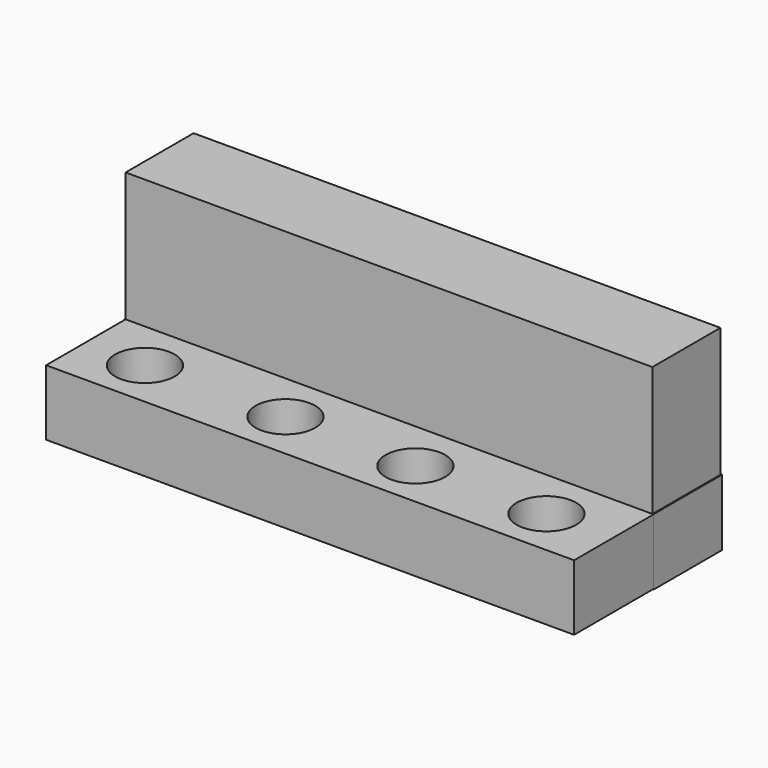
from build123d import *

# Parameters (mm, degrees)
F0_W     = 134.9227651954
F0_H     = 16.7649574578
F1_DEPTH = 25.4
F2_W     = 21.8847934157
F2_H     = 16.9657338411
F3_DEPTH = 25.4
F4_DEPTH = 25.4
F5_DEPTH = 16.002
F6_DEPTH = 68.326
F7_W     = 21.7192191631
F7_H     = 33.0388583243
F8_DEPTH = 66.548
F9_DEPTH = 68.072
F11_D    = 15.24
F12_D    = 15.24
F13_D    = 15.24


with BuildPart() as f1:
    # F0 (on Front) → F1 (new body)
    with BuildSketch(Plane.XZ):
        with Locations((-0.6023310125, -8.3824787289)):
            Rectangle(F0_W, F0_H)
    extrude(amount=F1_DEPTH)

    # F2 (on Right) → F3 (join)
    with BuildSketch(Plane.YZ):
        with Locations((10.9423967078, -8.4828669205)):
            Rectangle(F2_W, F2_H)
    extrude(amount=F3_DEPTH)

    # F4 (add): a face of the model
    f4_faces = [f1.faces().sort_by_distance(p)[0] for p in [
        (25.4, 10.9423967078, -8.4828669205),
    ]]
    extrude(f4_faces, amount=F4_DEPTH)

    # F5 (add): a face of the model
    f5_faces = [f1.faces().sort_by_distance(p)[0] for p in [
        (50.8, 10.9423967078, -8.4828669205),
    ]]
    extrude(f5_faces, amount=F5_DEPTH)

    # F6 (add): a face of the model
    f6_faces = [f1.faces().sort_by_distance(p)[0] for p in [
        (0, 10.9423967078, -8.4828669205),
    ]]
    extrude(f6_faces, amount=F6_DEPTH)

    # F7 (on Right) → F8 (join)
    with BuildSketch(Plane.YZ):
        with Locations((10.8596095815, 16.5194291621)):
            Rectangle(F7_W, F7_H)
    extrude(amount=F8_DEPTH)

    # F9 (add): a face of the model
    f9_faces = [f1.faces().sort_by_distance(p)[0] for p in [
        (0, 10.8596095815, 16.5194291621),
    ]]
    extrude(f9_faces, amount=F9_DEPTH)

    # F11 (through all)
    with Locations(Plane.XY):
        with Locations((-52.6038147509, -13.1509546191)):
            Hole(F11_D / 2)

    # F12 (through all)
    with Locations(Plane.XY):
        with Locations((-16.8653447181, -12.9501754418)):
            Hole(F12_D / 2)

    # F13 (through all)
    with Locations(Plane.XY):
        with Locations((16.6645683348, -13.3517310023), (49.9937050045, -13.1509546191)):
            Hole(F13_D / 2)


solid = f1.part
